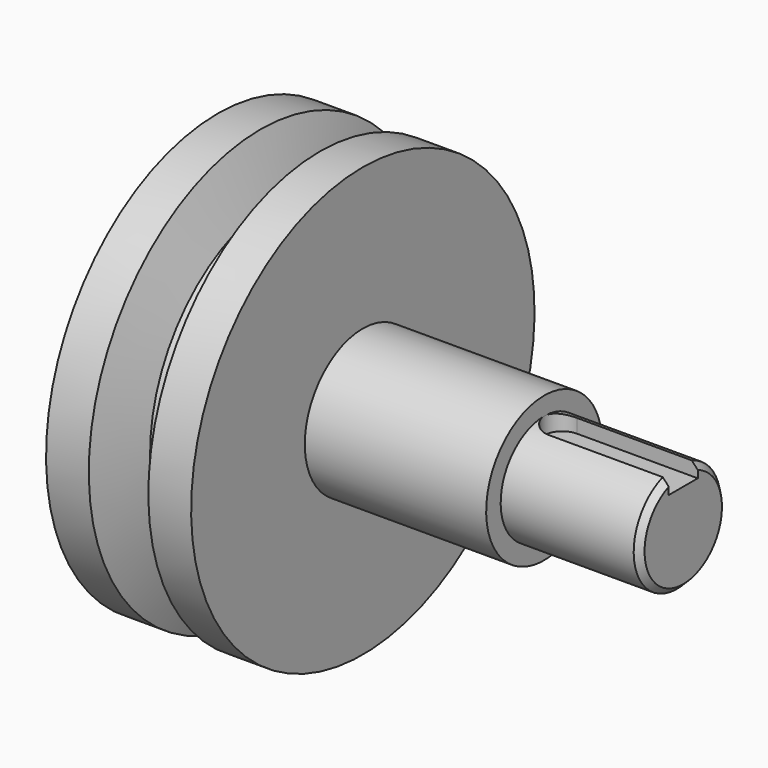
from build123d import *

# Parameters (mm, degrees)
F4_DEPTH = 2.8
F5_SIZE  = 1


with BuildPart() as f1:
    # F0 (on Front) → F1 (revolve)
    with BuildSketch(Plane.XZ):
        Polygon((0, 35.5), (0, 0), (77, 0), (77, 9), (54, 9), (54, 12), (24, 12), (24, 35.5), (16.924277, 35.5), (14, 26.5), (10, 26.5), (7.075723, 35.5), align=None)
    revolve(axis=Axis((38.5, 0, 0), (1, 0, 0)))

    # F3 (on offset) → F4 (cut)
    with BuildSketch(Plane.XY.offset(9)):
        with BuildLine():
            Line((57, -3), (77, -3))
            Line((77, -3), (77, 3))
            Line((77, 3), (57, 3))
            ThreePointArc((57, 3), (54, 0), (57, -3))
        make_face()
    extrude(amount=-F4_DEPTH, mode=Mode.SUBTRACT)

    # F5
    f5_edges = [f1.edges().sort_by_distance(p)[0] for p in [
        (77, 0, -9),
    ]]
    chamfer(f5_edges, length=F5_SIZE)


solid = f1.part
